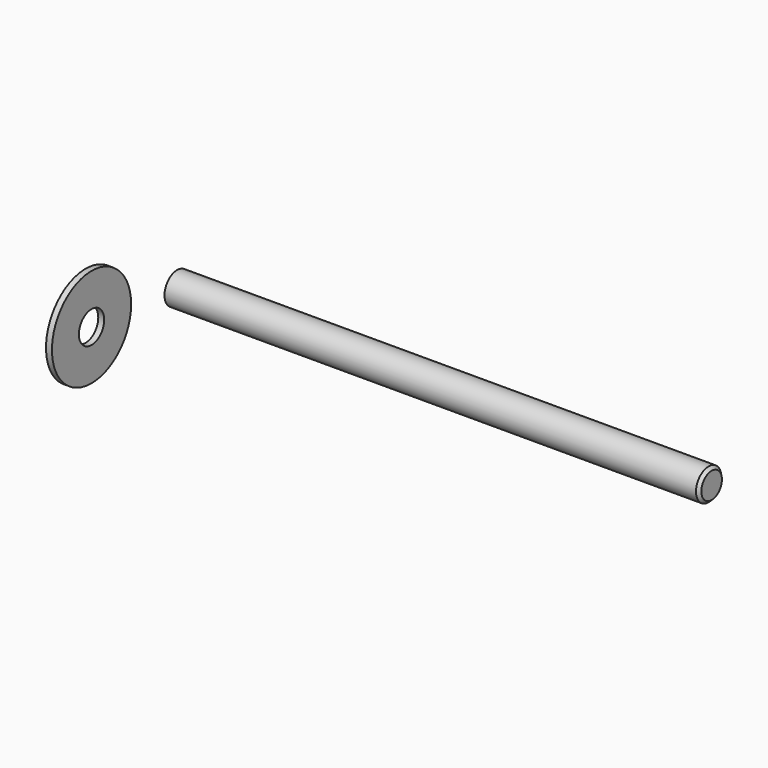
from build123d import *

# Parameters (mm, degrees)
F0_R     = 8
F1_DEPTH = 270
F2_SIZE  = 1.5
F3_R     = 25
F3_R_2   = 8
F4_DEPTH = 3


with BuildPart() as f1:
    # F0 (on Right) → F1 (new body)
    with BuildSketch(Plane.YZ):
        Circle(F0_R)
    extrude(amount=F1_DEPTH)

    # F2
    f2_edges = [f1.edges().sort_by_distance(p)[0] for p in [
        (270, -8, 0),
    ]]
    chamfer(f2_edges, length=F2_SIZE)


with BuildPart() as f4:
    # F3 (on Right) → F4 (new body)
    with BuildSketch(Plane.YZ):
        with Locations((-57.827432, 7.088691)):
            Circle(F3_R)
        with Locations((-57.827432, 7.088691)):
            Circle(F3_R_2, mode=Mode.SUBTRACT)
    extrude(amount=F4_DEPTH)


solid = Compound([f1.part, f4.part])
